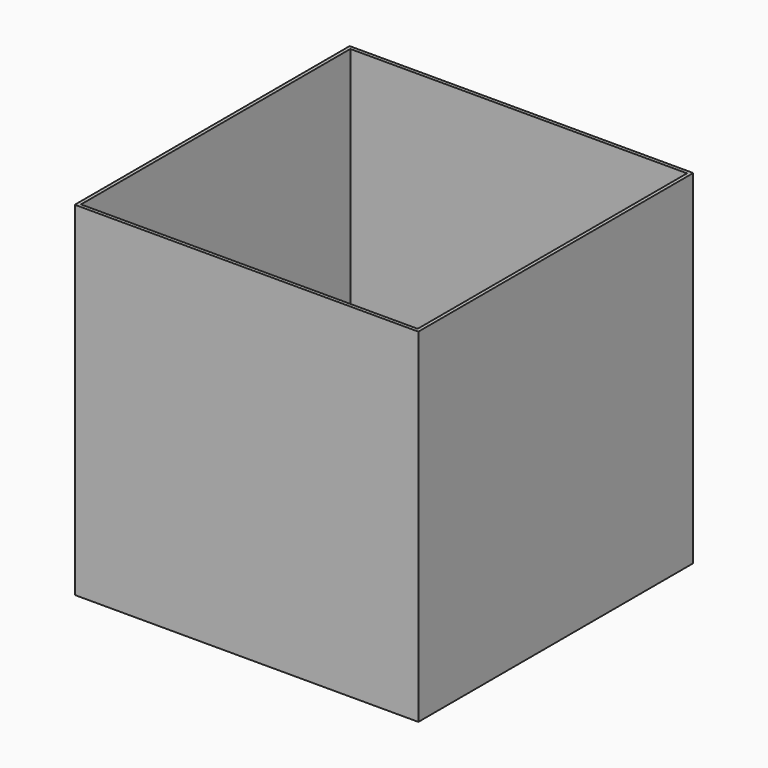
from build123d import *

# Parameters (mm, degrees)
F0_W     = 100
F0_H     = 100
F1_DEPTH = 100
F2_W     = 98
F2_H     = 98
F3_DEPTH = 98


with BuildPart() as f1:
    # F0 (on Front) → F1 (new body)
    with BuildSketch(Plane.XZ):
        Rectangle(F0_W, F0_H)
    extrude(amount=-F1_DEPTH)

    # F2 (on face) → F3 (cut)
    with BuildSketch(Plane.XY.offset(50)):
        with Locations((0, 50)):
            Rectangle(F2_W, F2_H)
    extrude(amount=-F3_DEPTH, mode=Mode.SUBTRACT)


solid = f1.part
